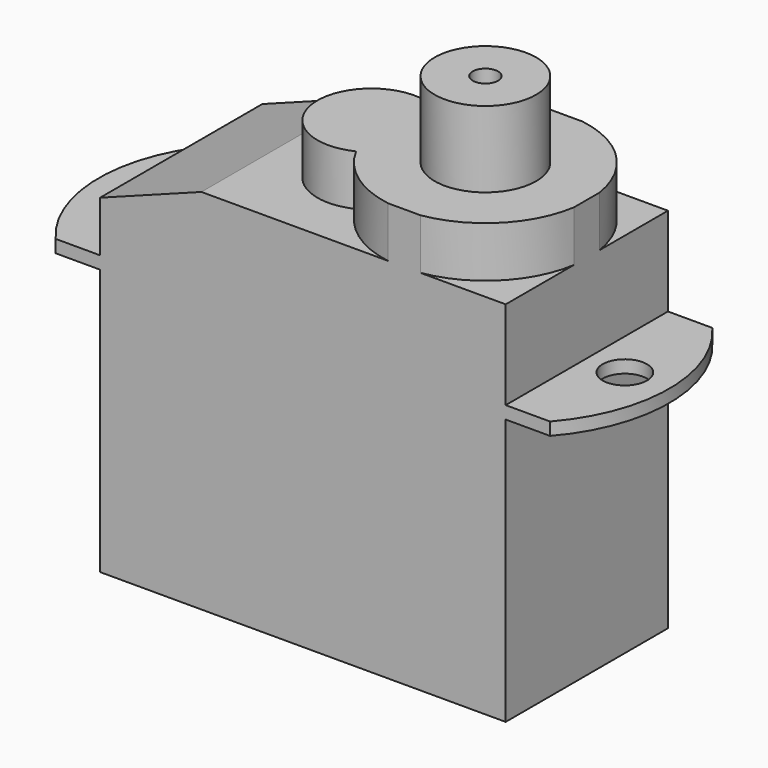
from build123d import *

# Parameters (mm, degrees)
F0_W      = 16
F0_H      = 8
F1_DEPTH  = 10.5
F2_R      = 0.875
F3_DEPTH  = 0.5
F4_W      = 16
F4_H      = 8
F5_DEPTH  = 3.5
F7_DEPTH  = 25
F9_DEPTH  = 2
F10_DEPTH = 25
F11_DEPTH = 25
F12_DEPTH = 25
F13_R     = 2
F13_R_2   = 0.5
F14_DEPTH = 3


with BuildPart() as f1:
    # F0 (on Top) → F1 (new body)
    with BuildSketch(Plane.XY):
        Rectangle(F0_W, F0_H)
    extrude(amount=F1_DEPTH)

    # F2 (on face) → F3 (join)
    with BuildSketch(Plane.XY.offset(10.5)):
        with BuildLine():
            ThreePointArc((9.75, -4), (11.25, 0), (9.75, 4))
            Line((9.75, 4), (-9.75, 4))
            ThreePointArc((-9.75, 4), (-11.25, 0), (-9.75, -4))
            Line((-9.75, -4), (9.75, -4))
        make_face()
        with Locations((-9.5, 0)):
            Circle(F2_R, mode=Mode.SUBTRACT)
        with Locations((9.5, 0)):
            Circle(F2_R, mode=Mode.SUBTRACT)
    extrude(amount=F3_DEPTH)

    # F4 (on face) → F5 (join)
    with BuildSketch(Plane.XY.offset(11)):
        Rectangle(F4_W, F4_H)
    extrude(amount=F5_DEPTH)

    # F6 (on face) → F7 (cut)
    with BuildSketch(Plane.XZ.offset(4)):
        Polygon((-8, 14.5), (-8, 13), (-4, 14.5), align=None)
    extrude(amount=-F7_DEPTH, mode=Mode.SUBTRACT)

    # F8 (on face) → F9 (join)
    with BuildSketch(Plane.XY.offset(14.5)):
        with BuildLine():
            ThreePointArc((0.4292361111, -1.9110586725), (4.9851157927, -3.928364402), (8.05, 0))
            ThreePointArc((8.05, 0), (4.9851157927, 3.928364402), (0.4292361111, 1.9110586725))
            ThreePointArc((0.4292361111, 1.9110586725), (1.3014232895, 1.1271641992), (1.625, 0))
            ThreePointArc((1.625, 0), (1.3014232895, -1.1271641992), (0.4292361111, -1.9110586725))
        make_face()
        with BuildLine():
            ThreePointArc((1.625, 0), (1.3014232895, 1.1271641992), (0.4292361111, 1.9110586725))
            ThreePointArc((0.4292361111, 1.9110586725), (-0.05, 0), (0.4292361111, -1.9110586725))
            ThreePointArc((0.4292361111, -1.9110586725), (1.3014232895, -1.1271641992), (1.625, 0))
        make_face()
        with BuildLine():
            ThreePointArc((0.4292361111, -1.9110586725), (-0.05, 0), (0.4292361111, 1.9110586725))
            ThreePointArc((0.4292361111, 1.9110586725), (-2.625, 0), (0.4292361111, -1.9110586725))
        make_face()
    extrude(amount=F9_DEPTH)

    # F10 (cut): a face of the model
    f10_faces = [f1.faces().sort_by_distance(p)[0] for p in [
        (4, 4.0200106199, 14.5),
    ]]
    extrude(f10_faces, amount=-F10_DEPTH, mode=Mode.SUBTRACT)

    # F11 (cut): a face of the model
    f11_faces = [f1.faces().sort_by_distance(p)[0] for p in [
        (4, -4.0200106199, 14.5),
    ]]
    extrude(f11_faces, amount=-F11_DEPTH, mode=Mode.SUBTRACT)

    # F12 (cut): a face of the model
    f12_faces = [f1.faces().sort_by_distance(p)[0] for p in [
        (8.0200106199, 0, 14.5),
    ]]
    extrude(f12_faces, amount=-F12_DEPTH, mode=Mode.SUBTRACT)

    # F13 (on face) → F14 (join)
    with BuildSketch(Plane.XY.offset(16.5)):
        with Locations((4, 0)):
            Circle(F13_R)
        with Locations((4, 0)):
            Circle(F13_R_2, mode=Mode.SUBTRACT)
    extrude(amount=F14_DEPTH)


solid = f1.part
